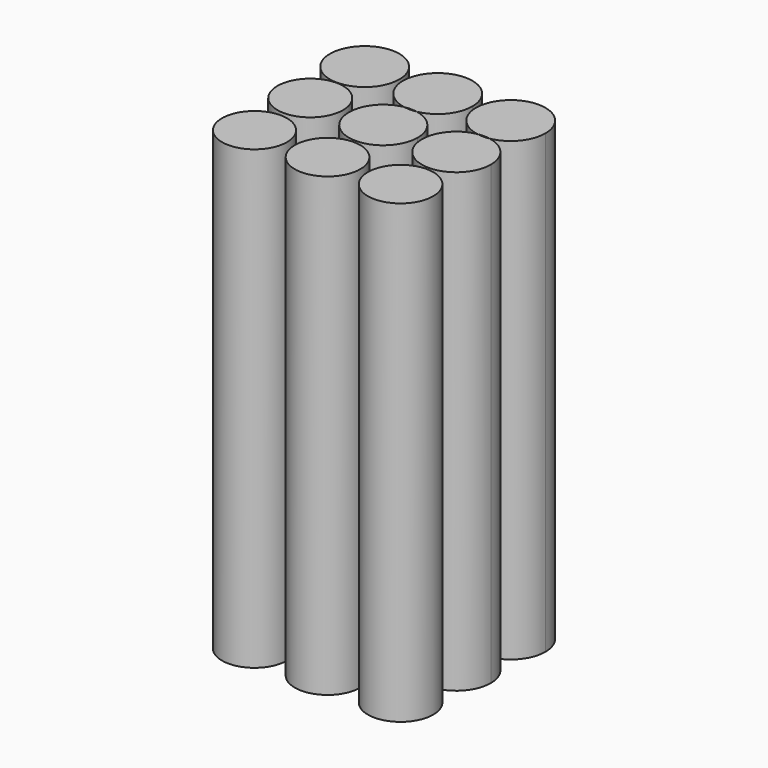
from build123d import *

# Parameters (mm, degrees)
F0_R     = 4.5185908262
F1_DEPTH = 63.5
F0_R_2   = 4.549435191
F0_R_3   = 4.5432827018
F0_R_4   = 4.5678424554
F0_R_5   = 4.826


with BuildPart() as f1:
    # F0 (on Top) → F1 (new body)
    with BuildSketch(Plane.XY):
        with Locations((-37.1828824282, 18.3523092419)):
            Circle(F0_R)
    extrude(amount=-F1_DEPTH)


with BuildPart() as f1b:
    # F0 (on Top) → F1, piece 2 (new body)
    with BuildSketch(Plane.XY):
        with Locations((-27.0228824282, 18.3523092419)):
            Circle(F0_R_2)
    extrude(amount=-F1_DEPTH)


with BuildPart() as f1c:
    # F0 (on Top) → F1, piece 3 (new body)
    with BuildSketch(Plane.XY):
        with Locations((-16.8628824282, 18.3523092419)):
            Circle(F0_R_3)
    extrude(amount=-F1_DEPTH)


with BuildPart() as f1d:
    # F0 (on Top) → F1, piece 4 (new body)
    with BuildSketch(Plane.XY):
        with BuildLine():
            ThreePointArc((-16.0045600975, 32.7608743887), (-16.8628824282, 32.6839331141), (-17.7212047588, 32.7608743887))
            ThreePointArc((-17.7212047588, 32.7608743887), (-19.9308101359, 24.3720544631), (-12.0738428075, 28.0493795872))
            ThreePointArc((-12.0738428075, 28.0493795872), (-13.1855573041, 31.1173072949), (-16.0045600975, 32.7608743887))
        make_face()
    extrude(amount=-F1_DEPTH)


with BuildPart() as f1e:
    # F0 (on Top) → F1, piece 5 (new body)
    with BuildSketch(Plane.XY):
        with BuildLine():
            ThreePointArc((-26.1645558464, 32.7608751571), (-27.0228824282, 32.6839331141), (-27.88120901, 32.7608751571))
            ThreePointArc((-27.88120901, 32.7608751571), (-30.0908095554, 24.3720520021), (-22.2338412897, 28.0493795872))
            ThreePointArc((-22.2338412897, 28.0493795872), (-23.345554843, 31.1173067144), (-26.1645558464, 32.7608751571))
        make_face()
    extrude(amount=-F1_DEPTH)


with BuildPart() as f1f:
    # F0 (on Top) → F1, piece 6 (new body)
    with BuildSketch(Plane.XY):
        with Locations((-37.1828824282, 28.0493795872)):
            Circle(F0_R_4)
    extrude(amount=-F1_DEPTH)


with BuildPart() as f1g:
    # F0 (on Top) → F1, piece 7 (new body)
    with BuildSketch(Plane.XY):
        with Locations((-37.1828824282, 37.5099331141)):
            Circle(F0_R_5)
    extrude(amount=-F1_DEPTH)


with BuildPart() as f1h:
    # F0 (on Top) → F1, piece 8 (new body)
    with BuildSketch(Plane.XY):
        with BuildLine():
            ThreePointArc((-26.1645558464, 32.7608751571), (-23.3193327739, 34.4157456669), (-22.1968824282, 37.5099331141))
            ThreePointArc((-22.1968824282, 37.5099331141), (-30.1170698753, 41.2134827684), (-27.88120901, 32.7608751571))
            ThreePointArc((-27.88120901, 32.7608751571), (-27.0228824282, 32.8384207257), (-26.1645558464, 32.7608751571))
        make_face()
    extrude(amount=-F1_DEPTH)


with BuildPart() as f1i:
    # F0 (on Top) → F1, piece 9 (new body)
    with BuildSketch(Plane.XY):
        with BuildLine():
            ThreePointArc((-16.0045600975, 32.7608743887), (-13.1593341588, 34.4157440093), (-12.0368824282, 37.5099331141))
            ThreePointArc((-12.0368824282, 37.5099331141), (-19.957071533, 41.2134813835), (-17.7212047588, 32.7608743887))
            ThreePointArc((-17.7212047588, 32.7608743887), (-16.8628824282, 32.8384192078), (-16.0045600975, 32.7608743887))
        make_face()
    extrude(amount=-F1_DEPTH)


solid = Compound([f1.part, f1b.part, f1c.part, f1d.part, f1e.part, f1f.part, f1g.part, f1h.part, f1i.part])
